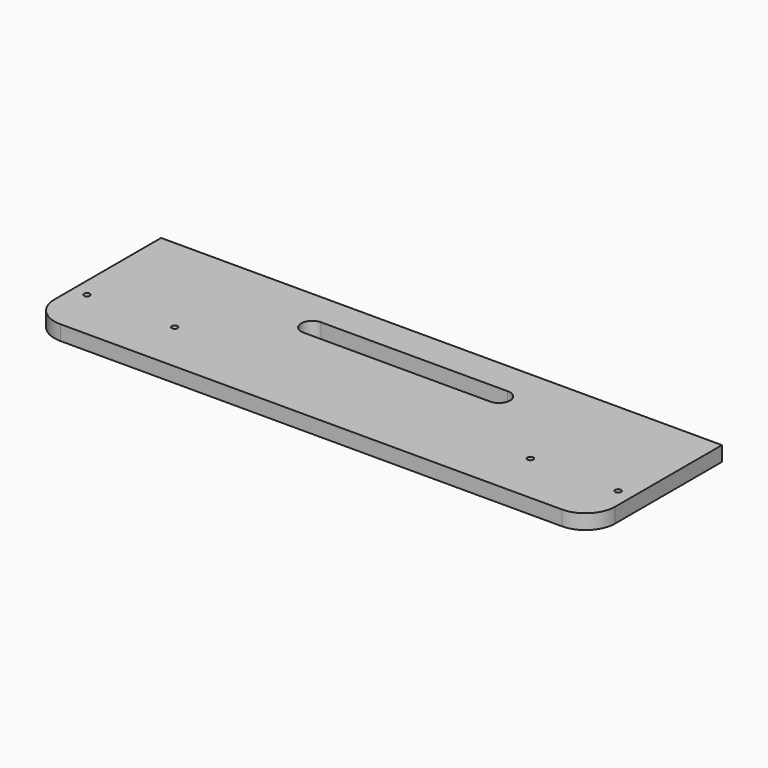
from build123d import *

# Parameters (mm, degrees)
F0_W     = 480.568
F0_H     = 139.7
F1_DEPTH = 12.7
F2_R     = 2.54
F3_DEPTH = 25.4
F4_R     = 25.4


with BuildPart() as f1:
    # F0 (on Top) → F1 (new body)
    with BuildSketch(Plane.XY):
        with Locations((192.473375, 50.443076)):
            Rectangle(F0_W, F0_H)
    extrude(amount=-F1_DEPTH)

    # F2 (on face) → F3 (cut)
    with BuildSketch(Plane.XY):
        with Locations((-35.110625, 25.043076)):
            Circle(F2_R)
        with BuildLine():
            Line((271.960707, 91.714286), (112.209601, 91.718076))
            ThreePointArc((112.209601, 91.718076), (102.684375, 82.193076), (112.209601, 72.668076))
            Line((112.209601, 72.668076), (271.960707, 72.671866))
            ThreePointArc((271.960707, 72.671866), (281.754375, 82.193076), (271.960707, 91.714286))
        make_face()
        with Locations((40.073375, 25.043076)):
            Circle(F2_R)
        with Locations((344.873375, 25.043076)):
            Circle(F2_R)
        with Locations((420.057375, 25.043076)):
            Circle(F2_R)
    extrude(amount=-F3_DEPTH, mode=Mode.SUBTRACT)

    # F4
    f4_edges = [f1.edges().sort_by_distance(p)[0] for p in [
        (-47.810625, -19.406924, -6.35),
        (432.757375, -19.406924, -6.35),
    ]]
    fillet(f4_edges, radius=F4_R)


solid = f1.part
